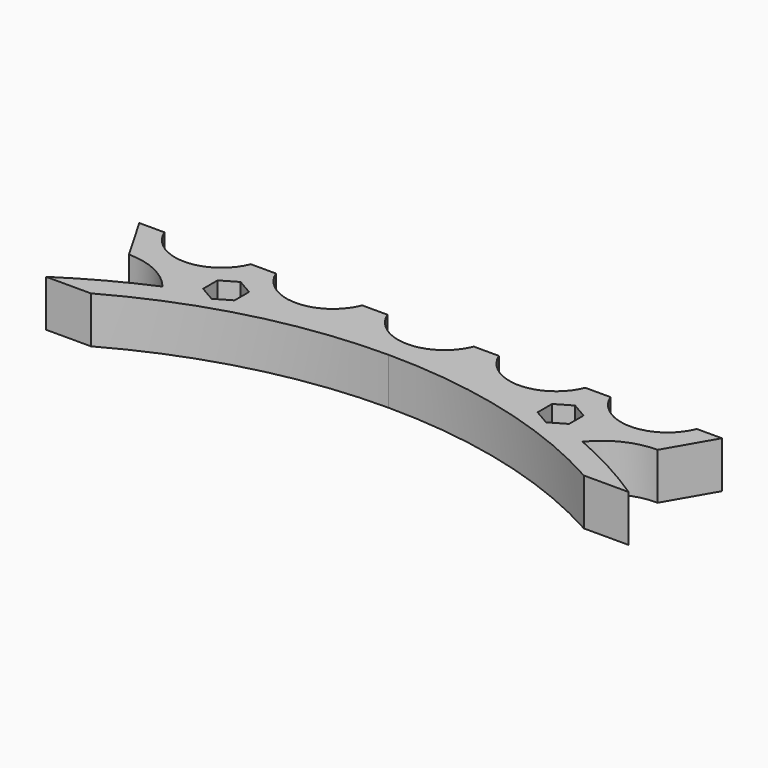
from build123d import *

# Parameters (mm, degrees)
PAD_DEPTH    = 8
POCKET_DEPTH = 6


with BuildPart() as part:
    # Sketch → Pad (new body)
    with BuildSketch(Plane.XY):
        with BuildLine():
            Line((-42.300512, 0), (-50, 0))
            ThreePointArc((-36.046862, 7.541232), (-43.188345, 4.075748), (-50, 0))
            ThreePointArc((-36.046862, 7.541232), (-40.208906, 10.828084), (-45.381198, 12))
            Line((-50, 20), (-45.381198, 12))
            Line((-45.693664, 20), (-50, 20))
            ThreePointArc((-45.693664, 20), (-38.277466, 15), (-30.861267, 20))
            Line((-30.861267, 20), (-26.554931, 20))
            ThreePointArc((-26.554931, 20), (-19.138733, 15), (-11.722534, 20))
            Line((-11.722534, 20), (-7.416198, 20))
            ThreePointArc((-7.416198, 20), (-4.472136, 16.36675), (0, 15))
            Line((0, 11), (0, 15))
            ThreePointArc((0, 11), (-21.85368, 8.205018), (-42.300512, 0))
        make_face()
    pad = extrude(amount=PAD_DEPTH)

    # Mirrored: Pad across Sketch V_Axis
    add(pad.mirror(Plane(origin=(0, 0, 0), x_dir=(0, 0, 1), z_dir=(1, 0, 0))))

    # Sketch001 → Pocket (cut)
    with BuildSketch(Plane.XY.offset(8)):
        Polygon((-28.708099, 15.117691), (-31.408099, 13.558846), (-31.408099, 10.441154), (-28.708099, 8.882309), (-26.008099, 10.441154), (-26.008099, 13.558846), align=None)
    pocket = extrude(amount=-POCKET_DEPTH, mode=Mode.SUBTRACT)

    # Mirrored001: Pocket across Sketch001 V_Axis
    add(pocket.mirror(Plane(origin=(0, 0, 8), x_dir=(0, 0, 1), z_dir=(1, 0, 0))), mode=Mode.SUBTRACT)


solid = part.part
